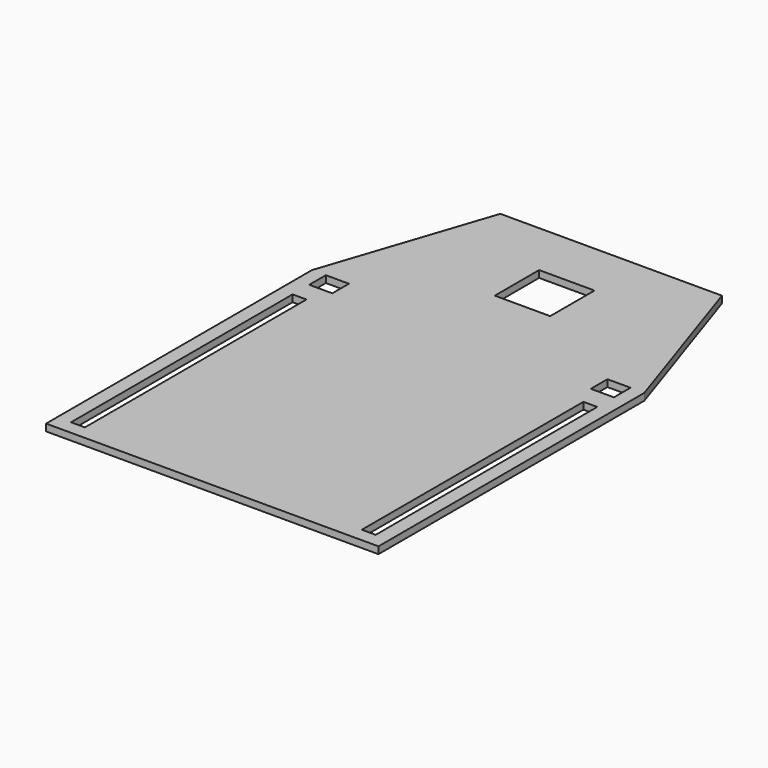
from build123d import *

# Parameters (mm, degrees)
F0_W     = 38.1
F0_H     = 762
F0_W_2   = 63.5
F0_H_2   = 57.15
F0_W_3   = 152.4
F0_H_3   = 152.4
F1_DEPTH = 19.05


with BuildPart() as f1:
    # F0 (on Top) → F1 (new body)
    with BuildSketch(Plane.XY):
        Polygon((-669.859934, 405.539142), (-669.859934, -508.860858), (244.540066, -508.860858), (244.540066, 405.539142), (92.140066, 862.739142), (-517.459934, 862.739142), align=None)
        with Locations((-612.709934, -89.760858)):
            Rectangle(F0_W, F0_H, mode=Mode.SUBTRACT)
        with Locations((187.390066, -89.760858)):
            Rectangle(F0_W, F0_H, mode=Mode.SUBTRACT)
        with Locations((-600.009934, 376.964142)):
            Rectangle(F0_W_2, F0_H_2, mode=Mode.SUBTRACT)
        with Locations((-212.659934, 634.139142)):
            Rectangle(F0_W_3, F0_H_3, mode=Mode.SUBTRACT)
        with Locations((174.690066, 376.964142)):
            Rectangle(F0_W_2, F0_H_2, mode=Mode.SUBTRACT)
    extrude(amount=F1_DEPTH)


solid = f1.part
